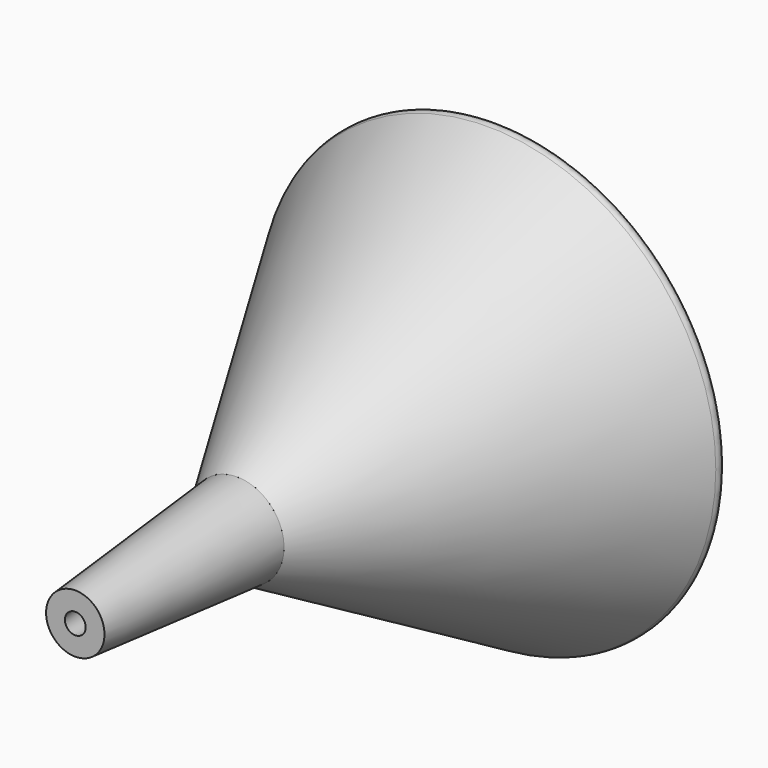
from build123d import *

# Parameters (mm, degrees)
F2_R = 5.08
F3_R = 2.032


with BuildPart() as f1:
    # F0 (on Top) → F1 (revolve)
    with BuildSketch(Plane.XY):
        with BuildLine():
            Line((10.2659887711, 90.615958193), (4.4001100361, 90.615958193))
            Line((4.4001100361, 90.615958193), (55.2001100361, 2.6277771685))
            Line((55.2001100361, 2.6277771685), (59.9909302565, -52.1315485239))
            Line((59.9909302565, -52.1315485239), (65.0903350313, -52.1315485239))
            Line((65.0903350313, -52.1315485239), (60.2853179954, 2.7900475113))
            ThreePointArc((60.2853179954, 2.7900475113), (60.0155842998, 4.1460903717), (59.4587429766, 5.4116085449))
            Line((59.4587429766, 5.4116085449), (10.2659887711, 90.615958193))
        make_face()
    revolve(axis=Axis((67.9001100361, 35.5695039034, 0), (0, 1, 0)))

    # F2
    f2_edges = [f1.edges().sort_by_distance(p)[0] for p in [
        (76.341477, 5.411609, 0),
        (125.534231, 90.615958, 0),
        (34.862366, 48.013783, 0),
    ]]
    fillet(f2_edges, radius=F2_R)

    # F3
    f3_edges = [f1.edges().sort_by_distance(p)[0] for p in [
        (131.40011, 90.615958, 0),
    ]]
    fillet(f3_edges, radius=F3_R)


solid = f1.part
